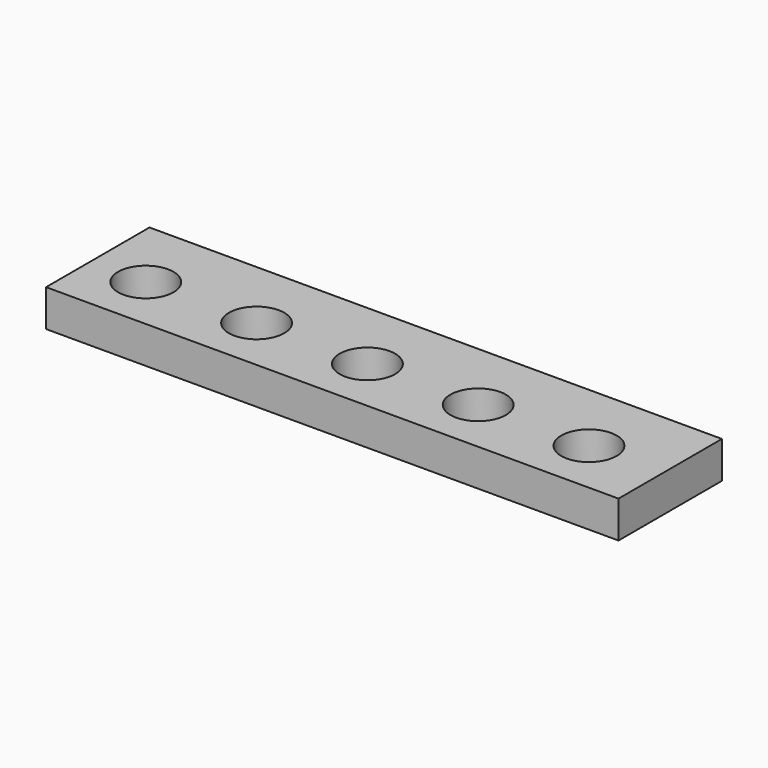
from build123d import *

# Parameters (mm, degrees)
CYLINDER_R     = 1.5
CYLINDER_DEPTH = 6
ARRAY_X_COUNT  = 5
ARRAY_X_PITCH  = 6
BOX_W          = 31
BOX_H          = 7
BOX_DEPTH      = 2


with BuildPart() as array:
    # Cylinder → Cylinder (new body)
    with BuildSketch(Plane.XY):
        Circle(CYLINDER_R)
    extrude(amount=CYLINDER_DEPTH)

    # Array X: Array ×5


with BuildPart() as array_1:
    add(array.part)
    with Locations(*[(i * ARRAY_X_PITCH, 0, 0) for i in range(1, ARRAY_X_COUNT)]):
        add(array.part)


with BuildPart() as cut:
    # Box → Box (new body)
    with BuildSketch(Plane(origin=(-3, -3, 0), x_dir=(1, 0, 0), z_dir=(0, 0, 1))):
        with Locations((15.5, 3.5)):
            Rectangle(BOX_W, BOX_H)
    extrude(amount=BOX_DEPTH)

    # Cut: cut Array
    add(array_1.part, mode=Mode.SUBTRACT)


solid = cut.part
